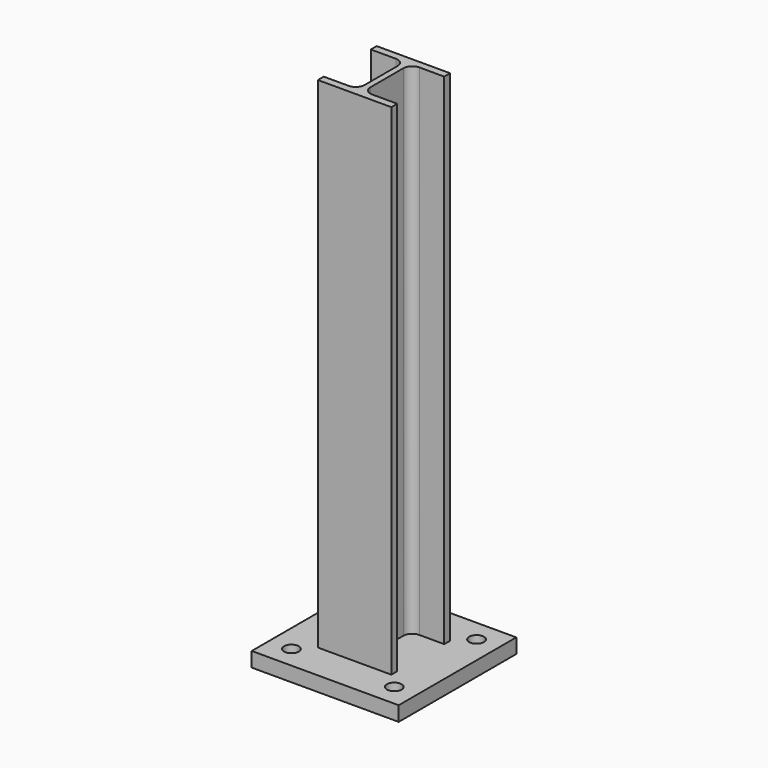
from build123d import *

# Parameters (mm, degrees)
PAD_DEPTH          = 70
SKETCH002_W        = 20
SKETCH002_H        = 20
PAD001_DEPTH       = 2
SKETCH003_R        = 1
POCKET_DEPTH       = 5
POLARPATTERN_COUNT = 4


with BuildPart() as pad:
    # Sketch001 → Pad (new body)
    with BuildSketch(Plane.XY):
        with BuildLine():
            Line((-5, 4), (-5, 5))
            Line((-5, 5), (5, 5))
            Line((5, 5), (5, 4))
            Line((5, 4), (1.6, 4))
            ThreePointArc((1.6, 4), (0.751472, 3.648528), (0.4, 2.8))
            Line((0.4, 2.8), (0.4, -2.8))
            ThreePointArc((0.4, -2.8), (0.751472, -3.648528), (1.6, -4))
            Line((1.6, -4), (5, -4))
            Line((5, -4), (5, -5))
            Line((5, -5), (-5, -5))
            Line((-5, -5), (-5, -4))
            Line((-5, -4), (-1.6, -4))
            ThreePointArc((-1.6, -4), (-0.751472, -3.648528), (-0.4, -2.8))
            Line((-0.4, -2.8), (-0.4, 2.8))
            ThreePointArc((-0.4, 2.8), (-0.751472, 3.648528), (-1.6, 4))
            Line((-1.6, 4), (-5, 4))
        make_face()
    extrude(amount=PAD_DEPTH)


with BuildPart() as fusion:
    # Sketch002 → Pad001 (new body)
    with BuildSketch(Plane.XY):
        Rectangle(SKETCH002_W, SKETCH002_H)
    extrude(amount=PAD001_DEPTH)

    # Sketch003 → Pocket (cut)
    with BuildSketch(Plane.XY.offset(2)):
        with Locations((-7, 7)):
            Circle(SKETCH003_R)
    pocket = extrude(amount=-POCKET_DEPTH, mode=Mode.SUBTRACT)

    # PolarPattern: Pocket ×4 about axis
    polarpattern_axis = Axis((0, 0, 2), (0, 0, 1))
    for i in range(1, POLARPATTERN_COUNT):
        add(pocket.rotate(polarpattern_axis, i * 360 / POLARPATTERN_COUNT), mode=Mode.SUBTRACT)

    # Fusion: union Pad
    add(pad.part)


solid = fusion.part
